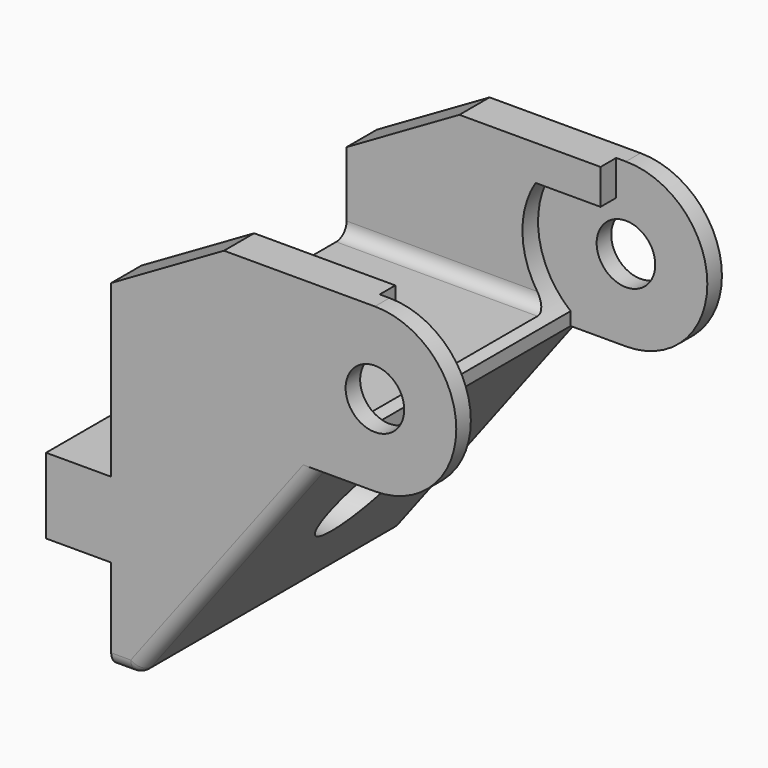
from build123d import *

# Parameters (mm, degrees)
SKETCH009_W          = 16
SKETCH009_H          = 25.5
PAD003_DEPTH         = 1.5
PAD003_DEPTH_BACK    = 18.5
POCKET006_DEPTH      = 12.751
POCKET006_DEPTH_BACK = 12.751
SKETCH010_R          = 2.25
PAD004_DEPTH         = 2.9
SKETCH011_R          = 2.25
PAD005_DEPTH         = 2.9
POCKET002_DEPTH      = 11.35
POCKET003_DEPTH      = 11.35
SKETCH015_R          = 2.2
POCKET004_DEPTH      = 26.501032
SKETCH016_R          = 3.75
POCKET005_DEPTH      = 23.501032
SKETCH017_W          = 6.75
SKETCH017_H          = 5.8
PAD006_DEPTH         = 5
FILLET001_R          = 1


with BuildPart() as part:
    # Sketch009 → Pad003 (new body, two sides)
    with BuildSketch(Plane.XY) as pad003_sk:
        Rectangle(SKETCH009_W, SKETCH009_H)
    extrude(amount=PAD003_DEPTH)
    extrude(pad003_sk.sketch, amount=-PAD003_DEPTH_BACK)

    # Sketch018 → Pocket006 (cut, two sides)
    with BuildSketch(Plane.XZ) as pocket006_sk:
        Polygon((-6, -18.5), (8, 0), (8, -18.5), align=None)
    extrude(amount=-POCKET006_DEPTH, mode=Mode.SUBTRACT)
    extrude(pocket006_sk.sketch, amount=POCKET006_DEPTH_BACK, mode=Mode.SUBTRACT)

    # Sketch010 → Pad004 (join)
    with BuildSketch(Plane.XZ.offset(12.75)):
        with BuildLine():
            ThreePointArc((12.25, 0), (18.500032, 6.25), (12.25, 12.5))
            Line((12.25, 12.5), (0.660254, 12.5))
            Line((0.660254, 12.5), (-8, 7.5))
            Line((-8, 7.5), (-8, 0))
            Line((-8, 0), (12.25, 0))
        make_face()
        with Locations((12.25, 6.25)):
            Circle(SKETCH010_R, mode=Mode.SUBTRACT)
    extrude(amount=-PAD004_DEPTH)

    # Sketch011 → Pad005 (join)
    with BuildSketch(Plane.XZ.offset(-12.75)):
        with BuildLine():
            Line((12.25, 0), (-8, 0))
            Line((-8, 0), (-8, 7.5))
            Line((-8, 7.5), (0.660254, 12.5))
            Line((0.660254, 12.5), (12.25, 12.5))
            ThreePointArc((12.25, 0), (18.500019, 6.25), (12.25, 12.5))
        make_face()
        with Locations((12.25, 6.25)):
            Circle(SKETCH011_R, mode=Mode.SUBTRACT)
    extrude(amount=PAD005_DEPTH)

    # Sketch012 → Pocket002 (cut)
    with BuildSketch(Plane.XZ.offset(11.35)):
        with BuildLine():
            Line((18.6, 12.5), (18.6, 0))
            Line((8, 0), (18.6, 0))
            Line((8, 1.005956), (8, 0))
            ThreePointArc((6.50892, 9.8), (5.594985, 5.121605), (8, 1.005956))
            Line((6.50892, 9.8), (11.5, 9.8))
            Line((11.5, 9.8), (11.5, 12.5))
            Line((11.5, 12.5), (18.6, 12.5))
        make_face()
    extrude(amount=-POCKET002_DEPTH, mode=Mode.SUBTRACT)

    # Sketch013 → Pocket003 (cut)
    with BuildSketch(Plane.XZ.offset(-11.35)):
        with BuildLine():
            Line((18.6, 12.5), (18.6, 0))
            Line((8, 0), (18.6, 0))
            Line((8, 1.005956), (8, 0))
            ThreePointArc((6.50892, 9.8), (5.594985, 5.121605), (8, 1.005956))
            Line((6.50892, 9.8), (11.5, 9.8))
            Line((11.5, 9.8), (11.5, 12.5))
            Line((11.5, 12.5), (18.6, 12.5))
        make_face()
    extrude(amount=POCKET003_DEPTH, mode=Mode.SUBTRACT)

    # Sketch015 (on DatumPlane) → Pocket004 (cut, through all)
    with BuildSketch(Plane(origin=(-8, 12.75, 0), x_dir=(0, -1, 0), z_dir=(-1, 0, 0))):
        with Locations((12.75, -8.5)):
            Circle(SKETCH015_R)
    extrude(amount=-POCKET004_DEPTH, mode=Mode.SUBTRACT)

    # Sketch016 (on DatumPlane) → Pocket005 (cut, through all)
    with BuildSketch(Plane(origin=(-5, 12.75, 0), x_dir=(0, -1, 0), z_dir=(-1, 0, 0))):
        with Locations((12.75, -8.5)):
            Circle(SKETCH016_R)
    extrude(amount=-POCKET005_DEPTH, mode=Mode.SUBTRACT)

    # Sketch017 (on DatumPlane) → Pad006 (join)
    with BuildSketch(Plane(origin=(-8, 12.75, 0), x_dir=(0, -1, 0), z_dir=(-1, 0, 0))):
        with Locations((3.375, -8.5)):
            Rectangle(SKETCH017_W, SKETCH017_H)
        with Locations((22.125, -8.5)):
            Rectangle(SKETCH017_W, SKETCH017_H)
    extrude(amount=PAD006_DEPTH)

    # Fillet001
    fillet001_edges = [part.edges().sort_by_distance(p)[0] for p in [
        (1, -12.75, -9.25),
        (1, 12.75, -9.25),
        (-7, 12.75, -18.5),
        (-6, 0, -18.5),
        (-7, -12.75, -18.5),
        (-0.272916, -9.85, 1.5),
        (-0.272916, 9.85, 1.5),
    ]]
    fillet(fillet001_edges, radius=FILLET001_R)


solid = part.part
